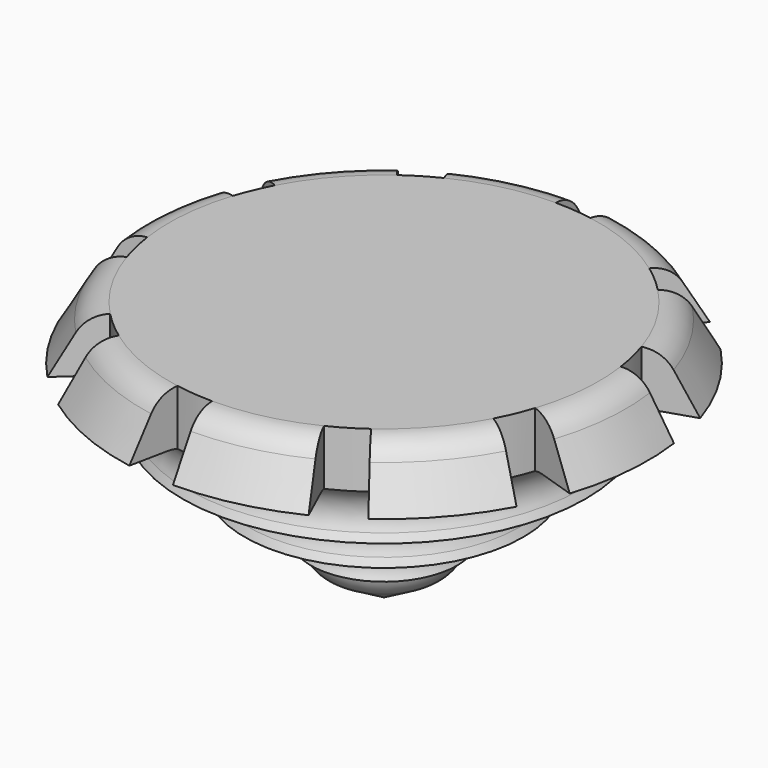
from build123d import *

# Parameters (mm, degrees)
F4_DEPTH = 25


with BuildPart() as f1:
    # F0 (on Front) → F1 (revolve)
    with BuildSketch(Plane.XZ):
        with BuildLine():
            Line((9.9019237886, -49.9198671121), (11.7320508076, -53.0897400932))
            ThreePointArc((11.7320508076, -53.0897400932), (11.7320508076, -48.0897400932), (16.0621778265, -45.5897400932))
            Line((16.0621778265, -45.5897400932), (22.4019237886, -45.5897400932))
            Line((22.4019237886, -45.5897400932), (21.7320508076, -44.4294860553))
            ThreePointArc((21.7320508076, -44.4294860553), (21.7320508076, -39.4294860553), (26.0621778265, -36.9294860553))
            Line((26.0621778265, -36.9294860553), (32.4019237886, -36.9294860553))
            Line((32.4019237886, -36.9294860553), (31.7320508076, -35.7692320175))
            ThreePointArc((31.7320508076, -35.7692320175), (31.7320508076, -30.7692320175), (36.0621778265, -28.2692320175))
            Line((36.0621778265, -28.2692320175), (42.4019237886, -28.2692320175))
            Line((42.4019237886, -28.2692320175), (38.8452994616, -22.1089779796))
            ThreePointArc((38.8452994616, -22.1089779796), (37.0151724427, -20.2788509607), (34.5151724427, -19.6089779796))
            Line((34.5151724427, -19.6089779796), (0, -19.6089779796))
            Line((0, -19.6089779796), (0, -61.4102481688))
            Line((0, -61.4102481688), (8.0717967697, -56.749994131))
            ThreePointArc((8.0717967697, -56.749994131), (10.4014259012, -53.7139623376), (9.9019237886, -49.9198671121))
        make_face()
    revolve(axis=Axis((0, 0, -40.5096130742), (0, 0, -1)))

    # F3 (on face) → F4 (cut)
    with BuildSketch(Plane.XY.offset(-19.6089779796)):
        with BuildLine():
            Line((-25.8685922622, 35.6050626977), (-20.2875093421, 27.9233610699))
            ThreePointArc((-20.2875093421, 27.9233610699), (-17.7890808744, 29.5777911682), (-15.1565689769, 31.009281604))
            Line((-15.1565689769, 31.009281604), (-19.3955450717, 40.3080067674))
            Line((-19.3955450717, 40.3080067674), (-25.8685922622, 35.6050626977))
        make_face()
        with BuildLine():
            Line((-41.8562615213, 13.599923779), (-32.8258796627, 10.6657748486))
            ThreePointArc((-32.8258796627, 10.6657748486), (-31.7770581858, 13.4727763214), (-30.4887202897, 16.1782280811))
            Line((-30.4887202897, 16.1782280811), (-39.3837775054, 21.2094471308))
            Line((-39.3837775054, 21.2094471308), (-41.8562615213, 13.599923779))
        make_face()
        with BuildLine():
            Line((-41.8562615213, -13.599923779), (-32.8258796627, -10.6657748486))
            ThreePointArc((-32.8258796627, -10.6657748486), (-33.6272793327, -7.7783811575), (-34.1752167254, -4.8323586911))
            Line((-34.1752167254, -4.8323586911), (-44.3287455373, -5.9904004271))
            Line((-44.3287455373, -5.9904004271), (-41.8562615213, -13.599923779))
        make_face()
        with BuildLine():
            Line((-25.8685922622, -35.6050626977), (-20.2875093421, -27.9233610699))
            ThreePointArc((-20.2875093421, -27.9233610699), (-22.6330227237, -26.0584614116), (-24.8079419449, -23.9971486891))
            Line((-24.8079419449, -23.9971486891), (-32.3416394526, -30.9021186281))
            Line((-32.3416394526, -30.9021186281), (-25.8685922622, -35.6050626977))
        make_face()
        with BuildLine():
            Line((0, -44.0102778375), (0, -34.5151724427))
            ThreePointArc((0, -34.5151724427), (-2.9937207024, -34.385095101), (-5.9648765323, -33.995843521))
            Line((-5.9648765323, -33.995843521), (-8.001126349, -44.0102778375))
            Line((-8.001126349, -44.0102778375), (0, -44.0102778375))
        make_face()
        with BuildLine():
            Line((25.8685922622, -35.6050626977), (20.2875093421, -27.9233610699))
            ThreePointArc((20.2875093421, -27.9233610699), (17.7890808744, -29.5777911682), (15.1565689769, -31.009281604))
            Line((15.1565689769, -31.009281604), (19.3955450717, -40.3080067674))
            Line((19.3955450717, -40.3080067674), (25.8685922622, -35.6050626977))
        make_face()
        with BuildLine():
            Line((41.8562615213, -13.599923779), (32.8258796627, -10.6657748486))
            ThreePointArc((32.8258796627, -10.6657748486), (31.7770581858, -13.4727763214), (30.4887202897, -16.1782280811))
            Line((30.4887202897, -16.1782280811), (39.3837775054, -21.2094471308))
            Line((39.3837775054, -21.2094471308), (41.8562615213, -13.599923779))
        make_face()
        with BuildLine():
            Line((41.8562615213, 13.599923779), (32.8258796627, 10.6657748486))
            ThreePointArc((32.8258796627, 10.6657748486), (33.6272793327, 7.7783811575), (34.1752167254, 4.8323586911))
            Line((34.1752167254, 4.8323586911), (44.3287455373, 5.9904004271))
            Line((44.3287455373, 5.9904004271), (41.8562615213, 13.599923779))
        make_face()
        with BuildLine():
            Line((25.8685922622, 35.6050626977), (20.2875093421, 27.9233610699))
            ThreePointArc((20.2875093421, 27.9233610699), (22.6330227237, 26.0584614116), (24.8079419449, 23.9971486891))
            Line((24.8079419449, 23.9971486891), (32.3416394526, 30.9021186281))
            Line((32.3416394526, 30.9021186281), (25.8685922622, 35.6050626977))
        make_face()
        with BuildLine():
            Line((0, 44.0102778375), (0, 34.5151724427))
            ThreePointArc((0, 34.5151724427), (2.9937207024, 34.385095101), (5.9648765323, 33.995843521))
            Line((5.9648765323, 33.995843521), (8.001126349, 44.0102778375))
            Line((8.001126349, 44.0102778375), (0, 44.0102778375))
        make_face()
    extrude(amount=-F4_DEPTH, mode=Mode.SUBTRACT)


solid = f1.part
